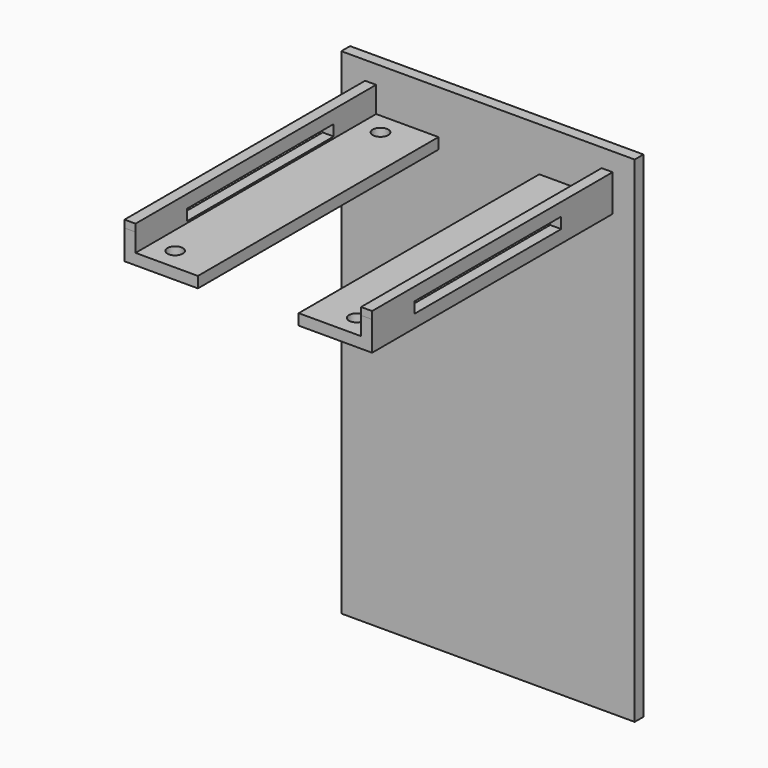
from build123d import *

# Parameters (mm, degrees)
SKETCH001_W               = 50
SKETCH001_H               = 3
PAD001_DEPTH              = 3
SKETCH_W                  = 20.009204
SKETCH_H                  = 82
SKETCH_R                  = 2.1
PAD_DEPTH                 = 3
BOX_W                     = 80
BOX_H                     = 3
BOX_DEPTH                 = 135
FUSION001_PLACEMENT_ANGLE = 180


with BuildPart() as pad001:
    # Sketch001 → Pad001 (new body)
    with BuildSketch(Plane.YZ):
        Polygon((0, 0), (82, 0), (82, 8), (82.002632, 10.013409), (-0.000823, 10.013409), (0, 8), align=None)
        with Locations((42.5338, 4.983344)):
            Rectangle(SKETCH001_W, SKETCH001_H, mode=Mode.SUBTRACT)
    extrude(amount=PAD001_DEPTH)


with BuildPart() as pad:
    # Sketch → Pad (new body)
    with BuildSketch(Plane.XY):
        with Locations((10.004602, 41)):
            Rectangle(SKETCH_W, SKETCH_H)
        with Locations((9, 6)):
            Circle(SKETCH_R, mode=Mode.SUBTRACT)
        with Locations((9, 76)):
            Circle(SKETCH_R, mode=Mode.SUBTRACT)
    extrude(amount=PAD_DEPTH)


with BuildPart() as fusion:
    # Fusion base: copy of Pad
    add(pad.part)

    # Fusion: union Pad001
    add(pad001.part)


with BuildPart() as cube:
    # Box → Box (new body)
    with BuildSketch(Plane(origin=(-6.5, 82, -120), x_dir=(1, 0, 0), z_dir=(0, 0, 1))):
        with Locations((40, 1.5)):
            Rectangle(BOX_W, BOX_H)
    extrude(amount=BOX_DEPTH)


with BuildPart() as fusion001:
    # Fusion001 base: copy of Pad
    add(pad.part)

    # Fusion001: union Pad001
    add(pad001.part)


with BuildPart() as fusion001_1:
    # Fusion001 placement: moved
    add(fusion001.part.moved(Location((67.5, 82, 0))).rotate(Axis((67.5, 82, 0), (0, 0, 1)), FUSION001_PLACEMENT_ANGLE))


solid = Compound([fusion.part, cube.part, fusion001_1.part])
